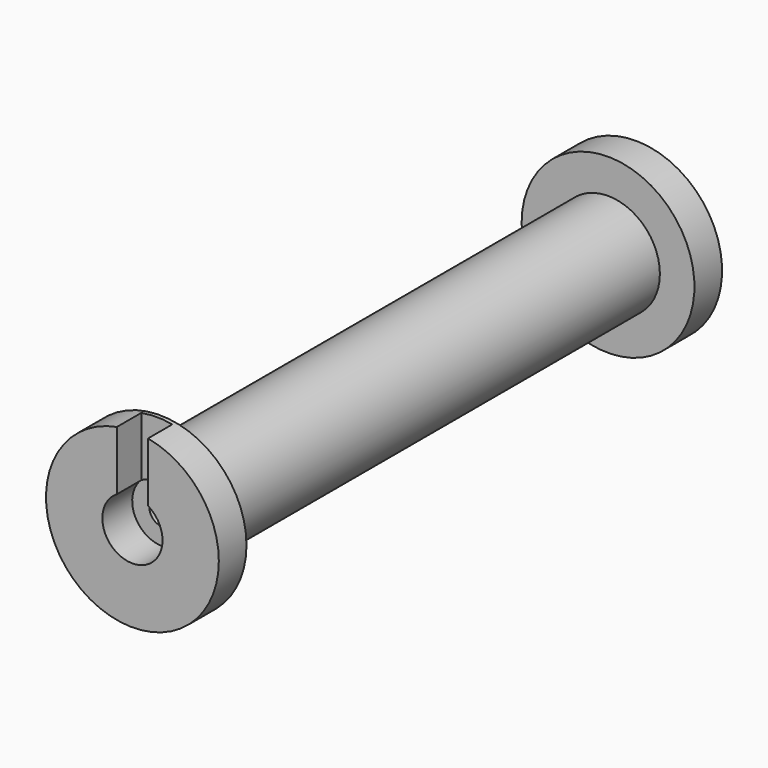
from build123d import *

# Parameters (mm, degrees)
F0_R      = 9.525
F0_R_2    = 2.38125
F1_DEPTH  = 115.57
F2_R      = 15.875
F2_R_2    = 9.525
F3_DEPTH  = 6.35
F4_R      = 2.921
F5_DEPTH  = 4.064
F6_R      = 15.875
F6_R_2    = 9.525
F7_DEPTH  = 6.35
F8_W      = 5.715
F8_H      = 5.842
F9_DEPTH  = 34.4932
F11_DEPTH = 6.858


with BuildPart() as f1:
    # F0 (on Front) → F1 (new body)
    with BuildSketch(Plane.XZ):
        Circle(F0_R)
        Circle(F0_R_2, mode=Mode.SUBTRACT)
    extrude(amount=F1_DEPTH)

    # F2 (on face) → F3 (join)
    with BuildSketch(Plane(origin=(0, 0, 0), x_dir=(-1, 0, 0), z_dir=(0, 1, 0))):
        Circle(F2_R)
        Circle(F2_R_2, mode=Mode.SUBTRACT)
    extrude(amount=-F3_DEPTH)

    # F4 (on face) → F5 (cut)
    with BuildSketch(Plane(origin=(0, 0, 0), x_dir=(-1, 0, 0), z_dir=(0, 1, 0))):
        with BuildLine():
            ThreePointArc((2.921, 7), (-2.0654589078, 9.0654589078), (0, 4.079))
            ThreePointArc((0, 4.079), (2.0654589078, 4.9345410922), (2.921, 7))
        make_face()
        with Locations((-7, 0)):
            Circle(F4_R)
        with BuildLine():
            ThreePointArc((2.921, -7), (2.0654589078, -4.9345410922), (0, -4.079))
            ThreePointArc((0, -4.079), (-2.0654589078, -9.0654589078), (2.921, -7))
        make_face()
        with BuildLine():
            ThreePointArc((9.921, 0), (7, 2.921), (4.079, 0))
            ThreePointArc((4.079, 0), (7, -2.921), (9.921, 0))
        make_face()
    extrude(amount=-F5_DEPTH, mode=Mode.SUBTRACT)

    # F6 (on face) → F7 (join)
    with BuildSketch(Plane.XZ.offset(115.57)):
        Circle(F6_R)
        Circle(F6_R_2, mode=Mode.SUBTRACT)
    extrude(amount=-F7_DEPTH)

    # F8 (on Top) → F9 (cut)
    with BuildSketch(Plane.XY):
        with Locations((0, -112.8891035914)):
            Rectangle(F8_W, F8_H)
    extrude(amount=F9_DEPTH, mode=Mode.SUBTRACT)

    # F10 (on face) → F11 (cut)
    with BuildSketch(Plane.XZ.offset(115.57)):
        with BuildLine():
            Line((2.8575, 0), (2.8575, 4.7280856591))
            ThreePointArc((2.8575, 4.7280856591), (0, 5.5245), (-2.8575, 4.7280856591))
            Line((-2.8575, 4.7280856591), (-2.8575, 0))
            Line((-2.8575, 0), (-2.38125, 0))
            ThreePointArc((-2.38125, 0), (0, -2.38125), (2.38125, 0))
            Line((2.38125, 0), (2.8575, 0))
        make_face()
        with BuildLine():
            ThreePointArc((-2.8575, 4.7280856591), (-2.7142072047, -4.8117750883), (5.5245, 0))
            ThreePointArc((5.5245, 0), (4.8117750883, 2.7142072047), (2.8575, 4.7280856591))
            Line((2.8575, 4.7280856591), (2.8575, 0))
            Line((2.8575, 0), (2.38125, 0))
            ThreePointArc((2.38125, 0), (0, -2.38125), (-2.38125, 0))
            Line((-2.38125, 0), (-2.8575, 0))
            Line((-2.8575, 0), (-2.8575, 4.7280856591))
        make_face()
    extrude(amount=-F11_DEPTH, mode=Mode.SUBTRACT)


solid = f1.part
